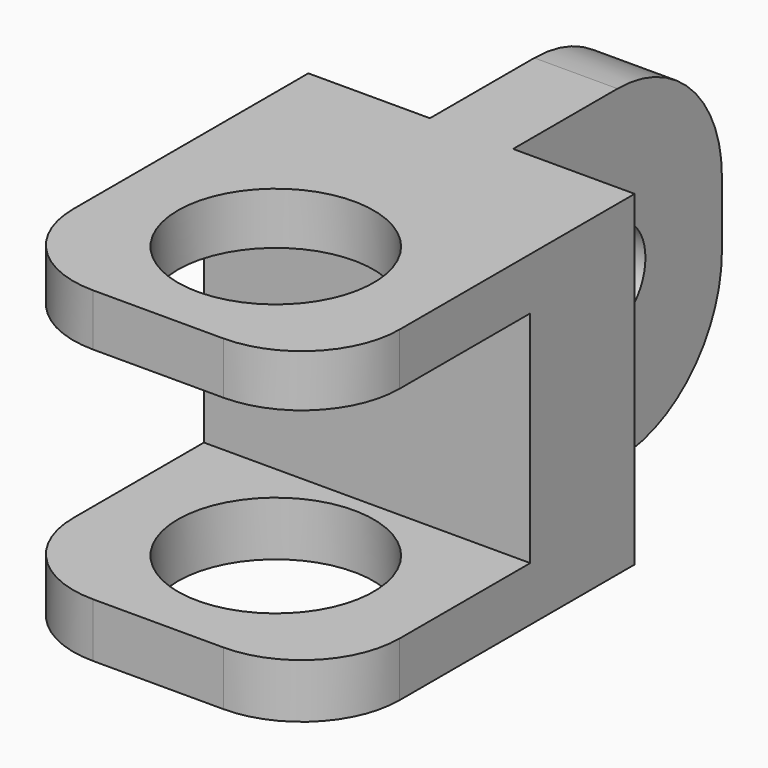
from build123d import *

# Parameters (mm, degrees)
F0_W     = 127
F0_H     = 127
F1_DEPTH = 50.8
F2_W     = 127
F2_H     = 20.286044
F2_H_2   = 21.141762
F3_DEPTH = 101.6
F5_D     = 76.2
F6_R     = 38.1
F7_W     = 32.363828
F7_H     = 127
F8_DEPTH = 101.6
F10_D    = 38.1
F11_R    = 50.8


with BuildPart() as f1:
    # F0 (on Front) → F1 (new body)
    with BuildSketch(Plane.XZ):
        Rectangle(F0_W, F0_H)
    extrude(amount=F1_DEPTH)

    # F2 (on face) → F3 (join)
    with BuildSketch(Plane.XZ.offset(50.8)):
        with Locations((0, 53.356978)):
            Rectangle(F2_W, F2_H)
        with Locations((0, -52.929119)):
            Rectangle(F2_W, F2_H_2)
    extrude(amount=F3_DEPTH)

    # F5 (through all)
    with Locations(Plane.XY.offset(63.5)):
        with Locations((0, -95.219441)):
            Hole(F5_D / 2)

    # F6
    f6_edges = [f1.edges().sort_by_distance(p)[0] for p in [
        (63.5, -152.4, 53.356978),
        (-63.5, -152.4, 53.356978),
        (63.5, -152.4, -52.929119),
        (-63.5, -152.4, -52.929119),
    ]]
    fillet(f6_edges, radius=F6_R)

    # F7 (on face) → F8 (join)
    with BuildSketch(Plane(origin=(0, 0, 0), x_dir=(-1, 0, 0), z_dir=(0, 1, 0))):
        Rectangle(F7_W, F7_H)
    extrude(amount=F8_DEPTH)

    # F10 (through all)
    with Locations(Plane(origin=(-16.181914, 0, 0), x_dir=(0, -1, 0), z_dir=(-1, 0, 0))):
        with Locations((-45.339677, 0)):
            Hole(F10_D / 2)

    # F11
    f11_edges = [f1.edges().sort_by_distance(p)[0] for p in [
        (0, 101.6, 63.5),
        (0, 101.6, -63.5),
    ]]
    fillet(f11_edges, radius=F11_R)


solid = f1.part
